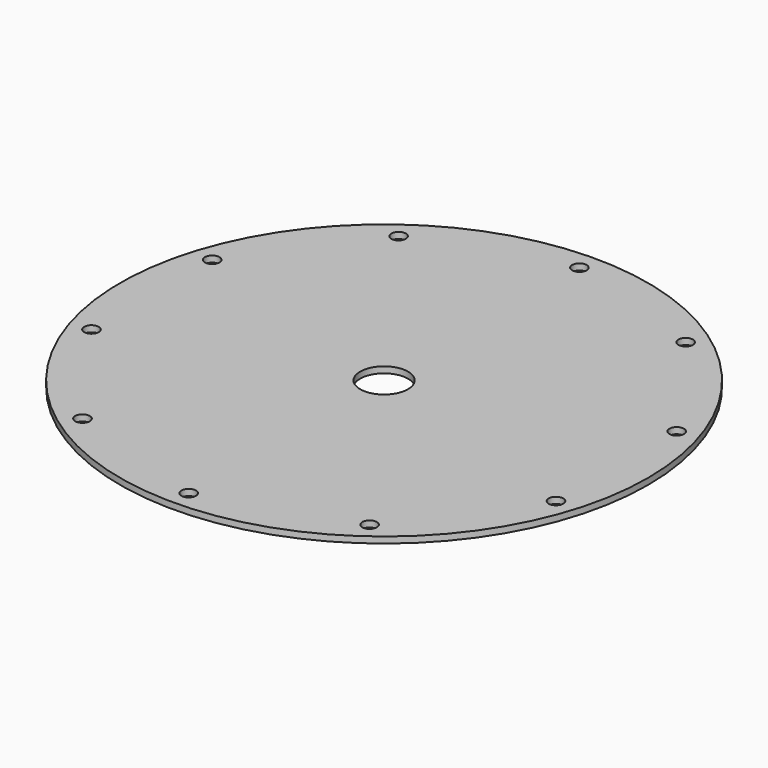
from build123d import *

# Parameters (mm, degrees)
F0_R     = 254
F0_R_2   = 7
F0_R_3   = 23
F1_DEPTH = 6


with BuildPart() as f1:
    # F0 (on Top) → F1 (new body)
    with BuildSketch(Plane.XY):
        Circle(F0_R)
        with Locations((-138.129534, -190.118994)):
            Circle(F0_R_2, mode=Mode.SUBTRACT)
        with Locations((-223.498281, -72.618994)):
            Circle(F0_R_2, mode=Mode.SUBTRACT)
        with Locations((0, -235)):
            Circle(F0_R_2, mode=Mode.SUBTRACT)
        with Locations((138.129534, -190.118994)):
            Circle(F0_R_2, mode=Mode.SUBTRACT)
        with Locations((223.498281, -72.618994)):
            Circle(F0_R_2, mode=Mode.SUBTRACT)
        with Locations((-223.498281, 72.618994)):
            Circle(F0_R_2, mode=Mode.SUBTRACT)
        with Locations((-138.129534, 190.118994)):
            Circle(F0_R_2, mode=Mode.SUBTRACT)
        Circle(F0_R_3, mode=Mode.SUBTRACT)
        with Locations((223.498281, 72.618994)):
            Circle(F0_R_2, mode=Mode.SUBTRACT)
        with Locations((0, 235)):
            Circle(F0_R_2, mode=Mode.SUBTRACT)
        with Locations((138.129534, 190.118994)):
            Circle(F0_R_2, mode=Mode.SUBTRACT)
    extrude(amount=F1_DEPTH)


solid = f1.part
